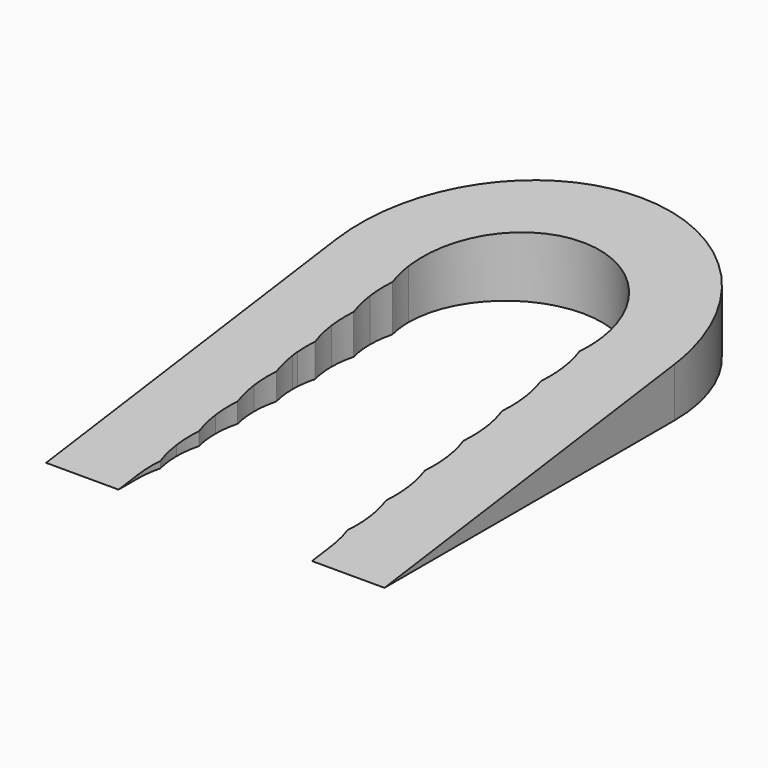
from build123d import *

# Parameters (mm, degrees)
F1_DEPTH = 3
F3_DEPTH = 12.5


with BuildPart() as f1:
    # F0 (on Top) → F1 (new body)
    with BuildSketch(Plane.XY):
        with BuildLine():
            ThreePointArc((-4, -5.7445626465), (-6.204836823, -3.2403703492), (-7, 0))
            Line((-7, 0), (-7, -15))
            Line((-7, -15), (-4, -15))
            Line((-4, -15), (-4, -14))
            Line((-4, -14), (-4, -12))
            Line((-4, -12), (-4, -10))
            Line((-4, -10), (-4, -8))
            Line((-4, -8), (-4, -6))
            Line((-4, -6), (-4, -5.7445626465))
        make_face()
        with BuildLine():
            Line((-4, -2), (-4, 0))
            Line((-4, 0), (-7, 0))
            ThreePointArc((-7, 0), (-6.204836823, -3.2403703492), (-4, -5.7445626465))
            Line((-4, -5.7445626465), (-4, -4))
            Line((-4, -4), (-4, -2))
        make_face()
        with BuildLine():
            ThreePointArc((-4, 0), (0, 4), (4, 0))
            Line((4, 0), (7, 0))
            ThreePointArc((7, 0), (0, 7), (-7, 0))
            Line((-7, 0), (-4, 0))
        make_face()
        with BuildLine():
            Line((7, 0), (4, 0))
            Line((4, 0), (4, -2))
            Line((4, -2), (4, -4))
            Line((4, -4), (4, -5.7445626465))
            ThreePointArc((4, -5.7445626465), (6.204836823, -3.2403703492), (7, 0))
        make_face()
        with BuildLine():
            Line((7, -15), (7, 0))
            ThreePointArc((7, 0), (6.204836823, -3.2403703492), (4, -5.7445626465))
            Line((4, -5.7445626465), (4, -6))
            Line((4, -6), (4, -8))
            Line((4, -8), (4, -10))
            Line((4, -10), (4, -12))
            Line((4, -12), (4, -14))
            Line((4, -14), (4, -15))
            Line((4, -15), (7, -15))
        make_face()
        with BuildLine():
            ThreePointArc((-3.8729833462, -1), (-3.9681187851, -0.5040171699), (-4, 0))
            Line((-4, 0), (-4, -2))
            ThreePointArc((-4, -2), (-3.9681187851, -1.4959828301), (-3.8729833462, -1))
        make_face()
        with BuildLine():
            ThreePointArc((-3.8729833462, -3), (-3.9681187851, -2.5040171699), (-4, -2))
            Line((-4, -2), (-4, -4))
            ThreePointArc((-4, -4), (-3.9681187851, -3.4959828301), (-3.8729833462, -3))
        make_face()
        with BuildLine():
            Line((-4, -4), (-4, -5.7445626465))
            ThreePointArc((-4, -5.7445626465), (-3.9960908526, -5.7472826533), (-3.9921798557, -5.75))
            ThreePointArc((-3.9921798557, -5.75), (-3.9504206166, -5.3721648688), (-3.8729833462, -5))
            ThreePointArc((-3.8729833462, -5), (-3.9681187851, -4.5040171699), (-4, -4))
        make_face()
        with BuildLine():
            ThreePointArc((-3.8729833462, -7), (-3.9681187851, -6.5040171699), (-4, -6))
            Line((-4, -6), (-4, -8))
            ThreePointArc((-4, -8), (-3.9681187851, -7.4959828301), (-3.8729833462, -7))
        make_face()
        with BuildLine():
            ThreePointArc((-3.8729833462, -9), (-3.9681187851, -8.5040171699), (-4, -8))
            Line((-4, -8), (-4, -10))
            ThreePointArc((-4, -10), (-3.9681187851, -9.4959828301), (-3.8729833462, -9))
        make_face()
        with BuildLine():
            ThreePointArc((-3.8729833462, -11), (-3.9681187851, -10.5040171699), (-4, -10))
            Line((-4, -10), (-4, -12))
            ThreePointArc((-4, -12), (-3.9681187851, -11.4959828301), (-3.8729833462, -11))
        make_face()
        with BuildLine():
            Line((-4, -12), (-4, -14))
            ThreePointArc((-4, -14), (-3.9681187851, -13.4959828301), (-3.8729833462, -13))
            ThreePointArc((-3.8729833462, -13), (-3.9681187851, -12.5040171699), (-4, -12))
        make_face()
        with BuildLine():
            ThreePointArc((3.8729833462, -13), (3.9681187851, -13.4959828301), (4, -14))
            Line((4, -14), (4, -12))
            ThreePointArc((4, -12), (3.9681187851, -12.5040171699), (3.8729833462, -13))
        make_face()
        with BuildLine():
            Line((4, -12), (4, -10))
            ThreePointArc((4, -10), (3.9681187851, -10.5040171699), (3.8729833462, -11))
            ThreePointArc((3.8729833462, -11), (3.9681187851, -11.4959828301), (4, -12))
        make_face()
        with BuildLine():
            Line((4, -10), (4, -8))
            ThreePointArc((4, -8), (3.9681187851, -8.5040171699), (3.8729833462, -9))
            ThreePointArc((3.8729833462, -9), (3.9681187851, -9.4959828301), (4, -10))
        make_face()
        with BuildLine():
            Line((4, -8), (4, -6))
            ThreePointArc((4, -6), (3.9681187851, -6.5040171699), (3.8729833462, -7))
            ThreePointArc((3.8729833462, -7), (3.9681187851, -7.4959828301), (4, -8))
        make_face()
        with BuildLine():
            ThreePointArc((3.9921798557, -5.75), (3.9960908526, -5.7472826533), (4, -5.7445626465))
            Line((4, -5.7445626465), (4, -4))
            ThreePointArc((4, -4), (3.9681187851, -4.5040171699), (3.8729833462, -5))
            ThreePointArc((3.8729833462, -5), (3.9504206166, -5.3721648688), (3.9921798557, -5.75))
        make_face()
        with BuildLine():
            Line((4, -4), (4, -2))
            ThreePointArc((4, -2), (3.9681187851, -2.5040171699), (3.8729833462, -3))
            ThreePointArc((3.8729833462, -3), (3.9681187851, -3.4959828301), (4, -4))
        make_face()
        with BuildLine():
            Line((4, -2), (4, 0))
            ThreePointArc((4, 0), (3.9681187851, -0.5040171699), (3.8729833462, -1))
            ThreePointArc((3.8729833462, -1), (3.9681187851, -1.4959828301), (4, -2))
        make_face()
    extrude(amount=F1_DEPTH)

    # F2 (on Right) → F3 (cut, symmetric)
    with BuildSketch(Plane.YZ):
        Polygon((7, 3), (0, 3), (-15, 3), (-15, 0), align=None)
    extrude(amount=F3_DEPTH, both=True, mode=Mode.SUBTRACT)


solid = f1.part
